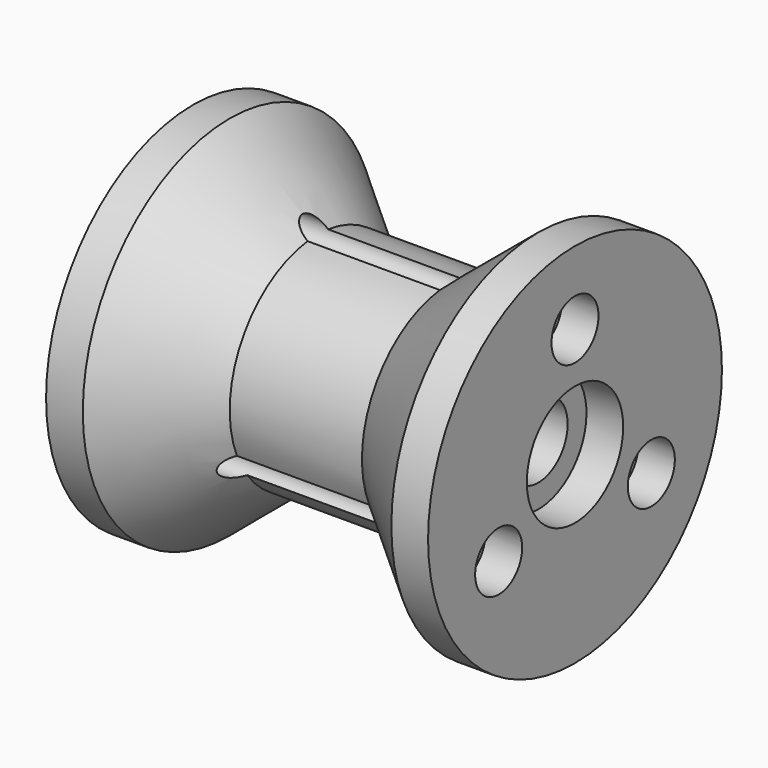
from build123d import *

# Parameters (mm, degrees)
F3_D           = 3.5
F3_START       = 12.3805311
F3_CBORE_D     = 8
F3_CBORE_DEPTH = 5


with BuildPart() as f1:
    # F0 (on Front) → F1 (revolve)
    with BuildSketch(Plane.XZ):
        Polygon((-12.3805310677, 8.2), (-12.3805310677, 25), (-17.3805310677, 25), (-29.3805310677, 15), (-47.3805310677, 15), (-59.3805310677, 25), (-64.3805310677, 25), (-64.3805310677, 11.25), (-61.3805310677, 11.25), (-61.3805310677, 8.2), (-31.3805310677, 8.2), (-31.3805310677, 5), (-17.3805310677, 5), (-17.3805310677, 8.2), align=None)
    revolve(axis=Axis((6.6371694137, 0, 0), (1, 0, 0)))

    # F3 (through all)
    # its depths count from where the whole tool has entered the part; down to there all is cleared
    with Locations(Plane.YZ.offset(-F3_START)):
        with Locations((0, 15), (-12.9903810568, -7.5), (12.9903810568, -7.5)):
            CounterBoreHole(F3_D / 2, F3_CBORE_D / 2, F3_CBORE_DEPTH)


solid = f1.part
